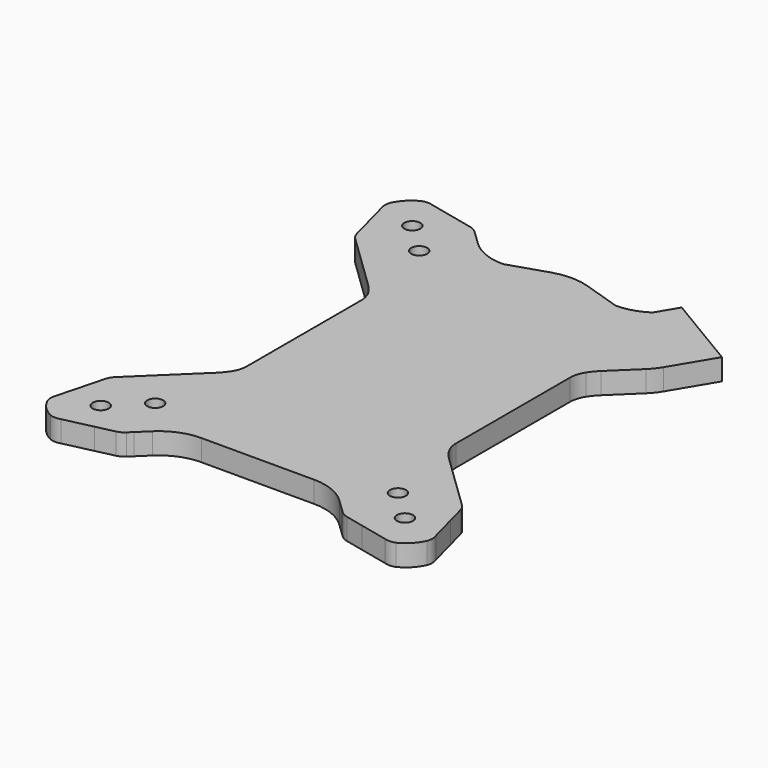
from build123d import *

# Parameters (mm, degrees)
F0_R     = 1.5
F1_DEPTH = 4


with BuildPart() as f1:
    # F0 (on Top) → F1 (new body)
    with BuildSketch(Plane.XY):
        with BuildLine():
            ThreePointArc((20.225759, -40.726859), (20.88342, -41.207836), (21.646246, -41.494115))
            Line((21.646246, -41.494115), (25.044904, -42.264138))
            Line((25.044904, -42.264138), (30.325992, -43.460657))
            ThreePointArc((30.325992, -43.460657), (31.363938, -43.61615), (32.391927, -43.404607))
            ThreePointArc((32.391927, -43.404607), (34.248228, -42.031919), (35.554256, -40.128129))
            ThreePointArc((35.554256, -40.128129), (35.729228, -39.093288), (35.537043, -38.061505))
            Line((35.537043, -38.061505), (34.154086, -32.826147))
            Line((34.154086, -32.826147), (33.264079, -29.456918))
            ThreePointArc((33.264079, -29.456918), (32.950942, -28.704719), (32.446956, -28.06452))
            Line((32.446956, -28.06452), (21.831277, -17.818679))
            ThreePointArc((21.831277, -17.818679), (21.047455, -16.969344), (20.366866, -16.035244))
            ThreePointArc((20.366866, -16.035244), (19.774372, -14.739531), (19.571381, -13.329314))
            Line((19.571381, -13.329314), (19.571381, 13.329314))
            ThreePointArc((19.571381, 13.329314), (19.774372, 14.739531), (20.366866, 16.035244))
            ThreePointArc((20.366866, 16.035244), (21.047455, 16.969344), (21.831277, 17.818679))
            Line((21.831277, 17.818679), (26.553101, 22.376))
            ThreePointArc((26.553101, 22.376), (27.441465, 23.354835), (28.192963, 24.442291))
            Line((28.192963, 24.442291), (32.873942, 32.276906))
            Line((32.873942, 32.276906), (18.454344, 40.892242))
            Line((18.454344, 40.892242), (16.119281, 36.984016))
            ThreePointArc((16.119281, 36.984016), (13.46563, 35.728384), (10.561704, 35.29746))
            Line((10.561704, 35.29746), (3.403735, 37.603494))
            ThreePointArc((3.403735, 37.603494), (0, 38.13824), (-3.403735, 37.603494))
            Line((-3.403735, 37.603494), (-10.561704, 35.29746))
            ThreePointArc((-10.561704, 35.29746), (-14.306504, 36.02511), (-17.506323, 38.102165))
            Line((-17.506323, 38.102165), (-19.467341, 39.994863))
            Line((-19.467341, 39.994863), (-20.225759, 40.726859))
            ThreePointArc((-20.225759, 40.726859), (-20.88342, 41.207836), (-21.646246, 41.494115))
            Line((-21.646246, 41.494115), (-25.044904, 42.264138))
            Line((-25.044904, 42.264138), (-30.325992, 43.460657))
            ThreePointArc((-30.325992, 43.460657), (-31.363938, 43.61615), (-32.391927, 43.404607))
            ThreePointArc((-32.391927, 43.404607), (-34.248228, 42.031919), (-35.554256, 40.128129))
            ThreePointArc((-35.554256, 40.128129), (-35.729228, 39.093288), (-35.537043, 38.061505))
            Line((-35.537043, 38.061505), (-34.154086, 32.826147))
            Line((-34.154086, 32.826147), (-33.264079, 29.456918))
            ThreePointArc((-33.264079, 29.456918), (-32.950942, 28.704719), (-32.446956, 28.06452))
            Line((-32.446956, 28.06452), (-21.831277, 17.818679))
            ThreePointArc((-21.831277, 17.818679), (-21.047455, 16.969344), (-20.366866, 16.035244))
            ThreePointArc((-20.366866, 16.035244), (-19.774372, 14.739531), (-19.571381, 13.329314))
            Line((-19.571381, 13.329314), (-19.571381, -13.329314))
            ThreePointArc((-19.571381, -13.329314), (-19.774372, -14.739531), (-20.366866, -16.035244))
            ThreePointArc((-20.366866, -16.035244), (-21.047455, -16.969344), (-21.831277, -17.818679))
            Line((-21.831277, -17.818679), (-32.446956, -28.06452))
            ThreePointArc((-32.446956, -28.06452), (-32.950942, -28.704719), (-33.264079, -29.456918))
            Line((-33.264079, -29.456918), (-34.154086, -32.826147))
            Line((-34.154086, -32.826147), (-35.537043, -38.061505))
            ThreePointArc((-35.537043, -38.061505), (-35.729228, -39.093288), (-35.554256, -40.128129))
            ThreePointArc((-35.554256, -40.128129), (-34.248228, -42.031919), (-32.391927, -43.404607))
            ThreePointArc((-32.391927, -43.404607), (-31.363938, -43.61615), (-30.325992, -43.460657))
            Line((-30.325992, -43.460657), (-25.044904, -42.264138))
            Line((-25.044904, -42.264138), (-21.646246, -41.494115))
            ThreePointArc((-21.646246, -41.494115), (-20.88342, -41.207836), (-20.225759, -40.726859))
            Line((-20.225759, -40.726859), (-19.467341, -39.994863))
            Line((-19.467341, -39.994863), (-17.506323, -38.102165))
            ThreePointArc((-17.506323, -38.102165), (-14.306504, -36.02511), (-10.561704, -35.29746))
            Line((-10.561704, -35.29746), (10.561704, -35.29746))
            ThreePointArc((10.561704, -35.29746), (14.306504, -36.02511), (17.506323, -38.102165))
            Line((17.506323, -38.102165), (19.467341, -39.994863))
            Line((19.467341, -39.994863), (20.225759, -40.726859))
        make_face()
        with Locations((-28.491992, -36.476224)):
            Circle(F0_R, mode=Mode.SUBTRACT)
        with Locations((-22.735756, -30.920528)):
            Circle(F0_R, mode=Mode.SUBTRACT)
        with Locations((28.491992, -36.476224)):
            Circle(F0_R, mode=Mode.SUBTRACT)
        with Locations((22.735756, -30.920528)):
            Circle(F0_R, mode=Mode.SUBTRACT)
        with Locations((-22.735756, 30.920528)):
            Circle(F0_R, mode=Mode.SUBTRACT)
        with Locations((-28.491992, 36.476224)):
            Circle(F0_R, mode=Mode.SUBTRACT)
    extrude(amount=F1_DEPTH)


solid = f1.part
